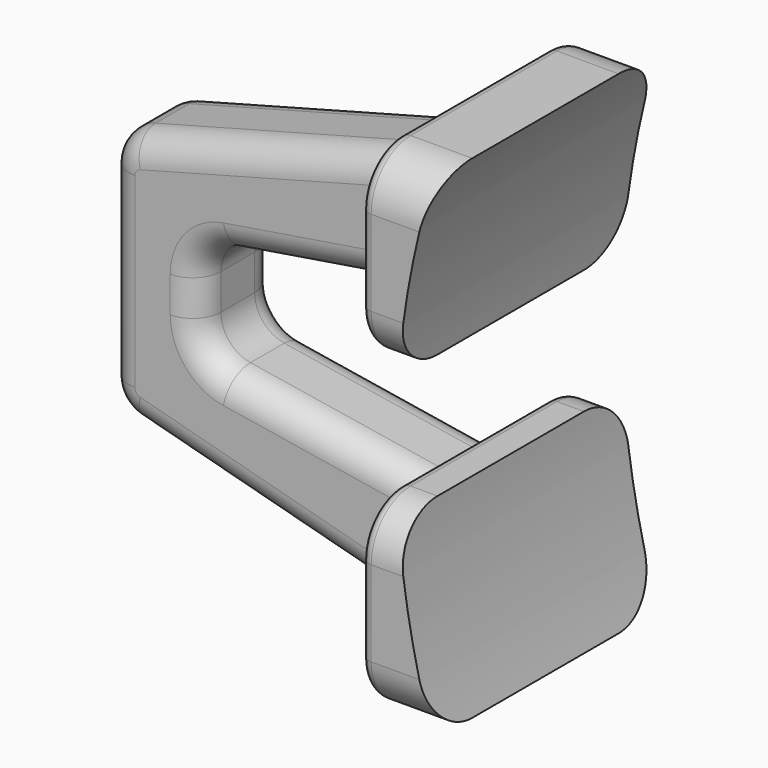
from build123d import *

# Parameters (mm, degrees)
F1_DEPTH = 1.778
F3_DEPTH = 5.08
F4_R     = 1.778
F5_R     = 0.381
F6_R     = 1.27
F7_R     = 1.016
F8_R     = 0.254


with BuildPart() as f1:
    # F0 (on Front) → F1 (new body, symmetric)
    with BuildSketch(Plane.XZ):
        with BuildLine():
            Line((-31.496, -8.89), (-28.8890805669, -8.89))
            ThreePointArc((-28.8890805669, -8.89), (-29.7019270302, -5.6041597669), (-30.1422858885, -2.2480385704))
            Line((-30.1422858885, -2.2480385704), (-31.496, -2.2480385704))
            Line((-31.496, -2.2480385704), (-31.496, -3.0988187389))
            Line((-31.496, -3.0988187389), (-39.9942283773, -1.7265919268))
            Line((-39.9942283773, -1.7265919268), (-39.9942283773, 0))
            Line((-39.9942283773, 0), (-39.9942283773, 1.7265919268))
            Line((-39.9942283773, 1.7265919268), (-31.496, 3.0988187389))
            Line((-31.496, 3.0988187389), (-31.496, 2.2480385704))
            Line((-31.496, 2.2480385704), (-30.1422858885, 2.2480385704))
            ThreePointArc((-30.1422858885, 2.2480385704), (-29.7019270302, 5.6041597669), (-28.8890805669, 8.89))
            Line((-28.8890805669, 8.89), (-31.496, 8.89))
            Line((-31.496, 8.89), (-31.496, 7.4847033247))
            Line((-31.496, 7.4847033247), (-43.2962283773, 4.3461126307))
            Line((-43.2962283773, 4.3461126307), (-43.2962283773, 0))
            Line((-43.2962283773, 0), (-43.2962283773, -4.3461126307))
            Line((-43.2962283773, -4.3461126307), (-31.496, -7.4847033247))
            Line((-31.496, -7.4847033247), (-31.496, -8.89))
        make_face()
    extrude(amount=F1_DEPTH, both=True)

    # F2 (on Front) → F3 (join, symmetric)
    with BuildSketch(Plane.XZ):
        with BuildLine():
            Line((-28.8890805669, 8.89), (-31.496, 8.89))
            Line((-31.496, 8.89), (-31.496, 2.2480385704))
            Line((-31.496, 2.2480385704), (-30.1422858885, 2.2480385704))
            ThreePointArc((-30.1422858885, 2.2480385704), (-29.7019270302, 5.6041597669), (-28.8890805669, 8.89))
        make_face()
        with BuildLine():
            Line((-31.496, -2.2480385704), (-31.496, -8.89))
            Line((-31.496, -8.89), (-28.8890805669, -8.89))
            ThreePointArc((-28.8890805669, -8.89), (-29.7019270302, -5.6041597669), (-30.1422858885, -2.2480385704))
            Line((-30.1422858885, -2.2480385704), (-31.496, -2.2480385704))
        make_face()
    extrude(amount=F3_DEPTH, both=True)

    # F4
    f4_edges = [f1.edges().sort_by_distance(p)[0] for p in [
        (-30.19254, -5.08, 8.89),
        (-30.819143, -5.08, 2.248039),
        (-30.19254, 5.08, 8.89),
        (-30.819143, 5.08, 2.248039),
        (-30.819143, 5.08, -2.248039),
        (-30.19254, 5.08, -8.89),
        (-30.19254, -5.08, -8.89),
        (-30.819143, -5.08, -2.248039),
    ]]
    fillet(f4_edges, radius=F4_R)

    # F5
    f5_edges = [f1.edges().sort_by_distance(p)[0] for p in [
        (-31.496, 0, 2.248039),
        (-31.496, 4.559236, 2.768803),
        (-31.496, 5.08, 5.569019),
        (-31.496, 4.559236, 8.369236),
        (-31.496, 0, 8.89),
        (-31.496, 0, -2.248039),
    ]]
    fillet(f5_edges, radius=F5_R)

    # F6
    f6_edges = [f1.edges().sort_by_distance(p)[0] for p in [
        (-43.296228, 0, -4.346113),
        (-43.296228, 0, 4.346113),
        (-39.994228, 0, 1.726592),
        (-39.994228, 0, -1.726592),
    ]]
    fillet(f6_edges, radius=F6_R)

    # F7
    f7_edges = [f1.edges().sort_by_distance(p)[0] for p in [
        (-36.924335, -1.778, -6.04089),
        (-36.924335, 1.778, -6.04089),
        (-39.994228, -1.778, 0),
        (-35.211338, 1.778, 2.498895),
    ]]
    fillet(f7_edges, radius=F7_R)

    # F8
    f8_edges = [f1.edges().sort_by_distance(p)[0] for p in [
        (-31.496, -1.778, -5.280679),
        (-31.496, -1.778, 5.280679),
    ]]
    fillet(f8_edges, radius=F8_R)


solid = f1.part
